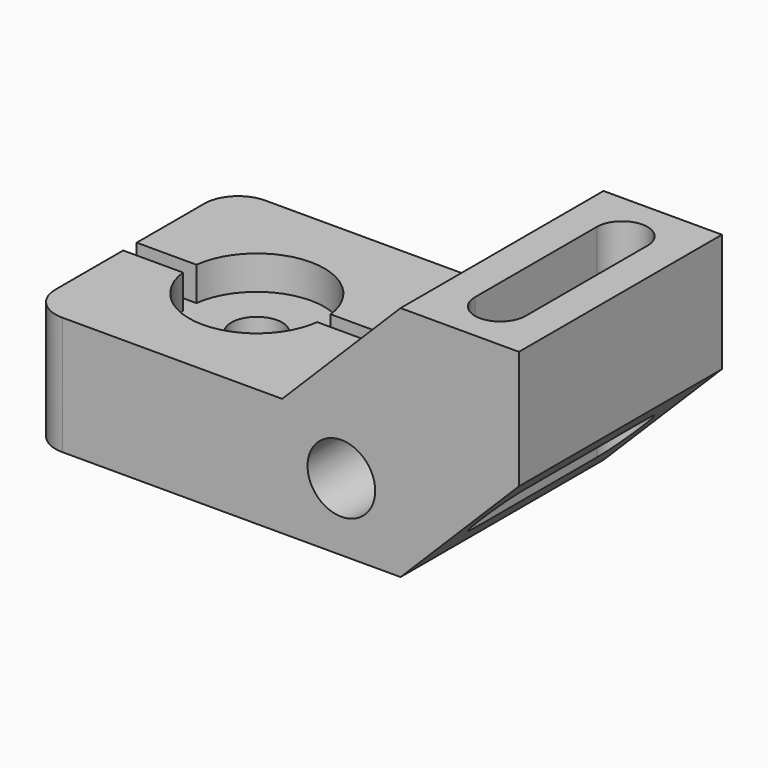
from build123d import *

# Parameters (mm, degrees)
F1_DEPTH = 76.2
F2_R     = 10.16
F3_DEPTH = 76.201
F4_R     = 7.62
F5_DEPTH = 35.561
F7_DEPTH = 10.16
F9_DEPTH = 71.121
F10_R    = 10.16


with BuildPart() as f1:
    # F0 (on Front) → F1 (new body)
    with BuildSketch(Plane.XZ):
        Polygon((0, 35.56), (0, 0), (111.76, 0), (147.32, 35.56), (147.32, 71.12), (111.76, 71.12), (76.2, 35.56), align=None)
    extrude(amount=F1_DEPTH)

    # F2 (on face) → F3 (cut, through all)
    with BuildSketch(Plane.XZ.offset(76.2)):
        with Locations((93.98, 20.32)):
            Circle(F2_R)
    extrude(amount=-F3_DEPTH, mode=Mode.SUBTRACT)

    # F4 (on face) → F5 (cut, through all)
    with BuildSketch(Plane.XY.offset(35.56)):
        with Locations((38.1, -38.1)):
            Circle(F4_R)
    extrude(amount=-F5_DEPTH, mode=Mode.SUBTRACT)

    # F6 (on face) → F7 (cut)
    with BuildSketch(Plane.XY.offset(35.56)):
        with BuildLine():
            Line((0, -40.64), (17.939375, -40.64))
            ThreePointArc((17.939375, -40.64), (38.1, -58.42), (58.260625, -40.64))
            Line((58.260625, -40.64), (76.2, -40.64))
            Line((76.2, -40.64), (76.2, -35.56))
            Line((76.2, -35.56), (58.260625, -35.56))
            ThreePointArc((58.260625, -35.56), (38.1, -17.78), (17.939375, -35.56))
            Line((17.939375, -35.56), (0, -35.56))
            Line((0, -35.56), (0, -40.64))
        make_face()
    extrude(amount=-F7_DEPTH, mode=Mode.SUBTRACT)

    # F8 (on face) → F9 (cut, through all)
    with BuildSketch(Plane.XY.offset(71.12)):
        with BuildLine():
            ThreePointArc((137.16, -15.24), (129.54, -7.62), (121.92, -15.24))
            Line((121.92, -15.24), (121.92, -60.96))
            ThreePointArc((121.92, -60.96), (129.54, -68.58), (137.16, -60.96))
            Line((137.16, -60.96), (137.16, -15.24))
        make_face()
    extrude(amount=-F9_DEPTH, mode=Mode.SUBTRACT)

    # F10
    f10_edges = [f1.edges().sort_by_distance(p)[0] for p in [
        (0, -76.2, 17.78),
        (0, 0, 17.78),
    ]]
    fillet(f10_edges, radius=F10_R)


solid = f1.part
